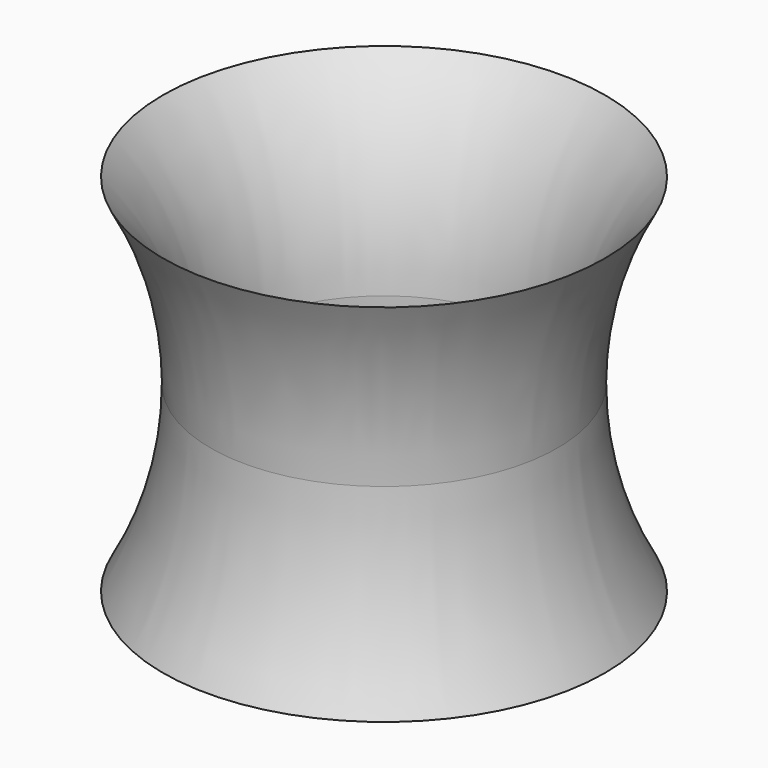
from build123d import *


with BuildPart() as f1:
    # F0 (on Front) → F1 (revolve)
    with BuildSketch(Plane.XZ):
        with BuildLine():
            ThreePointArc((-7.13, 0), (-7.6263261012, -3.8750880831), (-9.0832615303, -7.5))
            ThreePointArc((-9.0832615303, -7.5), (-6.8949102797, -4.0302528973), (-6.13, 0))
            Line((-6.13, 0), (-7.13, 0))
        make_face()
        with BuildLine():
            ThreePointArc((-9.0832615303, 7.5), (-7.6263261012, 3.8750880831), (-7.13, 0))
            Line((-7.13, 0), (-6.13, 0))
            ThreePointArc((-6.13, 0), (-6.8949102797, 4.0302528973), (-9.0832615303, 7.5))
        make_face()
    revolve(axis=Axis((0, 0, 0), (0, 0, -1)))


solid = f1.part
